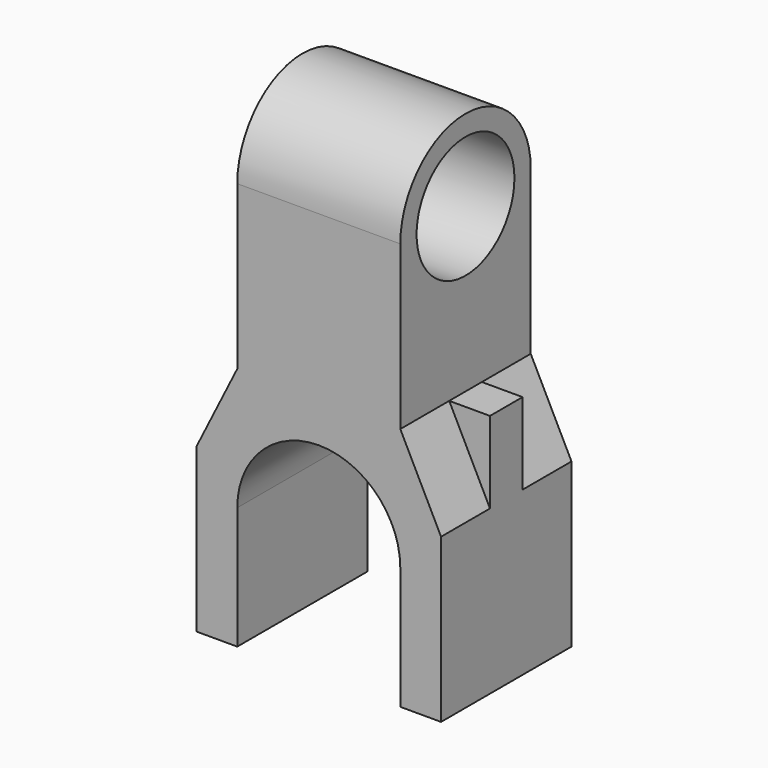
from build123d import *

# Parameters (mm, degrees)
PAD_DEPTH         = 20
PAD001_DEPTH      = 20
SKETCH002_R       = 15
POCKET_DEPTH      = 30.001
POCKET_DEPTH_BACK = -30.001
PAD002_DEPTH      = 5


with BuildPart() as part:
    # Sketch → Pad (new body, symmetric)
    with BuildSketch(Plane.XZ):
        with BuildLine():
            Line((20, 100), (-20, 100))
            Line((-20, 100), (-20, 60))
            Line((-20, 60), (-30, 40))
            Line((-30, 40), (-30, 0))
            Line((-30, 0), (-20, 0))
            Line((-20, 0), (-20, 30))
            ThreePointArc((20, 30), (0, 50), (-20, 30))
            Line((20, 30), (20, 0))
            Line((20, 0), (30, 0))
            Line((30, 0), (30, 40))
            Line((30, 40), (20, 60))
            Line((20, 60), (20, 100))
        make_face()
    extrude(amount=PAD_DEPTH, both=True)

    # Sketch001 → Pad001 (join, symmetric)
    with BuildSketch(Plane.YZ):
        with BuildLine():
            ThreePointArc((20, 100), (0, 120), (-20, 100))
            Line((-20, 100), (20, 100))
        make_face()
    extrude(amount=PAD001_DEPTH, both=True)

    # Sketch002 → Pocket (cut, two sides)
    with BuildSketch(Plane.YZ) as pocket_sk:
        with Locations((0, 100)):
            Circle(SKETCH002_R)
    extrude(amount=-POCKET_DEPTH, mode=Mode.SUBTRACT)
    extrude(pocket_sk.sketch, amount=-POCKET_DEPTH_BACK, mode=Mode.SUBTRACT)

    # Sketch003 → Pad002 (join, symmetric)
    with BuildSketch(Plane.XZ):
        Polygon((20, 60), (30, 60), (30, 40), align=None)
        Polygon((-30, 60), (-30, 40), (-20, 60), align=None)
    extrude(amount=PAD002_DEPTH, both=True)


solid = part.part
